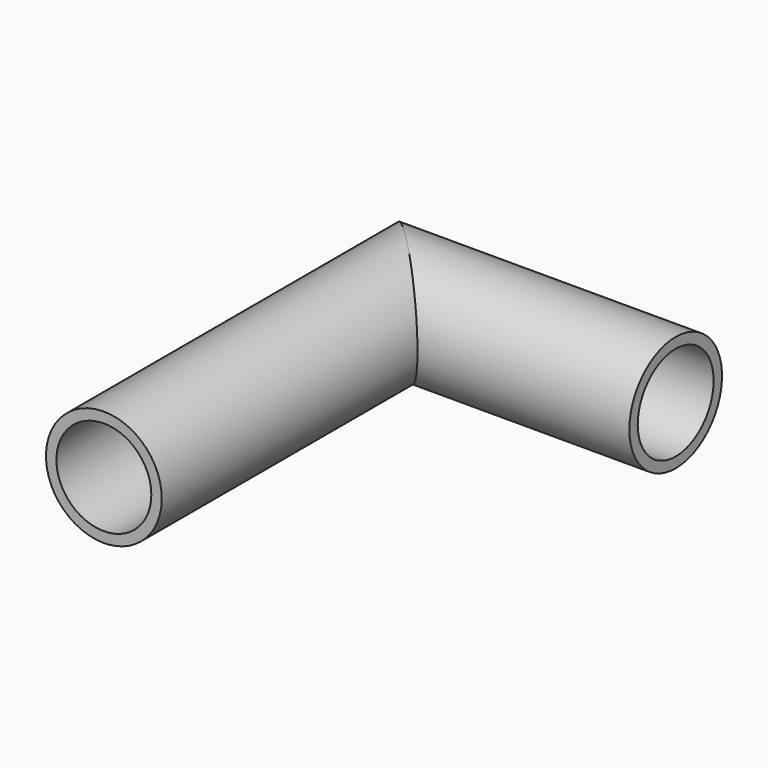
from build123d import *

# Parameters (mm, degrees)
F1_R   = 7.8106579967
F1_R_2 = 6.401876805


with BuildPart() as f2:
    # F2: sweep along a path in F0
    with BuildLine(Plane.XY) as f2_path:
        Line((0, 0), (0, 50.9362667799))
        Line((0, 50.9362667799), (36.3994017243, 50.9362667799))
    # F1 (on Front) → F2 (sweep)
    with BuildSketch(Plane.XZ):
        Circle(F1_R)
        Circle(F1_R_2, mode=Mode.SUBTRACT)
    sweep(path=f2_path.line, transition=Transition.RIGHT)


solid = f2.part
